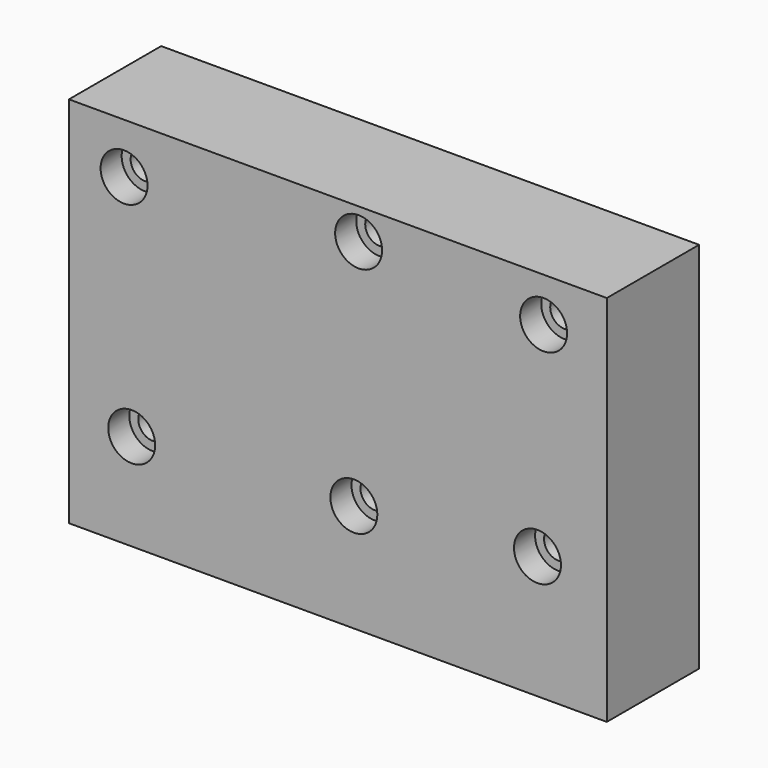
from build123d import *

# Parameters (mm, degrees)
F0_W           = 163.2499992847
F0_H           = 113.2552102208
F1_DEPTH       = 35
F3_D           = 8.8
F3_CBORE_D     = 14.25
F3_CBORE_DEPTH = 8


with BuildPart() as f1:
    # F0 (on Front) → F1 (new body)
    with BuildSketch(Plane.XZ):
        Rectangle(F0_W, F0_H)
    extrude(amount=-F1_DEPTH)

    # F3 (through all)
    with Locations(Plane.XZ):
        with Locations((-64.8933127522, 41.3377732038), (6.2941033393, 47.1671707928), (62.4419897795, 43.2642623782), (60.5768375099, -19.2698128521), (4.8523941077, -23.9080693573), (-62.5751391053, -27.3043885827)):
            CounterBoreHole(F3_D / 2, F3_CBORE_D / 2, F3_CBORE_DEPTH)


solid = f1.part
